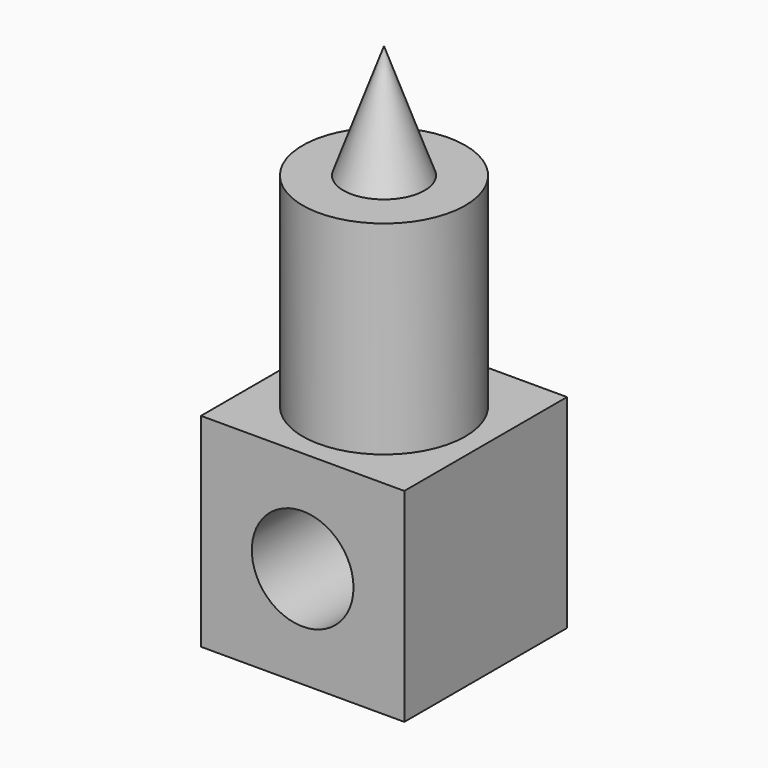
from build123d import *

# Parameters (mm, degrees)
F0_W     = 50
F0_H     = 50
F1_DEPTH = 25
F2_R     = 12.5
F3_DEPTH = 50
F4_R     = 20
F5_DEPTH = 50


with BuildPart() as f1:
    # F0 (on Front) → F1 (new body, symmetric)
    with BuildSketch(Plane.XZ):
        Rectangle(F0_W, F0_H)
    extrude(amount=F1_DEPTH, both=True)

    # F2 (on face) → F3 (cut)
    with BuildSketch(Plane.XZ.offset(25)):
        Circle(F2_R)
    extrude(amount=-F3_DEPTH, mode=Mode.SUBTRACT)

    # F4 (on face) → F5 (join)
    with BuildSketch(Plane.XY.offset(25)):
        Circle(F4_R)
    extrude(amount=F5_DEPTH)

    # F6 (on Front) → F7 (revolve)
    with BuildSketch(Plane.XZ):
        Polygon((0, 103), (0, 75), (10, 75), align=None)
    revolve(axis=Axis((0, 0, 89), (0, 0, 1)))


solid = f1.part
